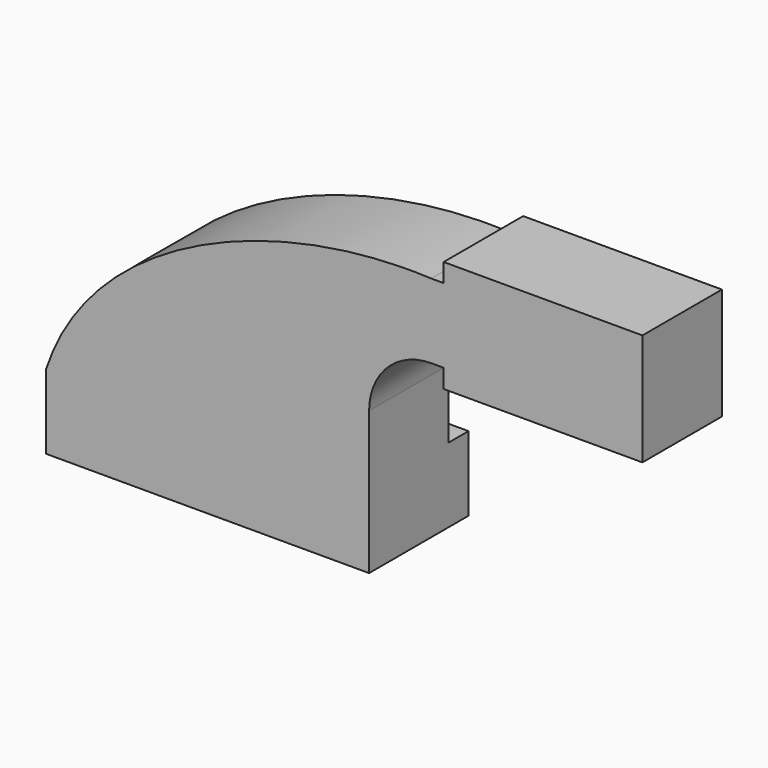
from build123d import *

# Parameters (mm, degrees)
F1_DEPTH = 6.35
F2_DEPTH = 25.4


with BuildPart() as f1:
    # F0 (on Front) → F1 (new body, symmetric)
    with BuildSketch(Plane.XZ):
        Polygon((41.275, -9.525), (41.275, 9.525), (22.225, 9.525), (-41.275, 9.525), (-41.275, -9.525), align=None)
    extrude(amount=F1_DEPTH, both=True)

    # F0 (on Front) → F2 (join)
    with BuildSketch(Plane.XZ):
        Polygon((41.275, -9.525), (41.275, 9.525), (22.225, 9.525), (-41.275, 9.525), (-41.275, -9.525), align=None)
        with BuildLine():
            Line((22.225, 9.525), (41.275, 9.525))
            Line((41.275, 9.525), (41.275, 27.0002))
            ThreePointArc((41.275, 27.0002), (45.92468, 38.22552), (57.15, 42.8752))
            Line((57.15, 42.8752), (60.325, 42.8752))
            Line((60.325, 42.8752), (60.325, 61.9252))
            Line((60.325, 61.9252), (57.15, 61.9252))
            ThreePointArc((57.15, 61.9252), (32.454296, 51.695904), (22.225, 27.0002))
            Line((22.225, 27.0002), (22.225, 9.525))
        make_face()
        with BuildLine():
            Line((-41.275, 9.525), (22.225, 9.525))
            Line((22.225, 9.525), (22.225, 27.0002))
            ThreePointArc((22.225, 27.0002), (32.454296, 51.695904), (57.15, 61.9252))
            add(Edge.make_bspline(
                [(-41.275, 9.525), (-29.570732, 45.406431), (17.613171, 63.827544), (57.15, 61.9252)],
                knots=[0, 0, 0, 0, 111.504536, 111.504536, 111.504536, 111.504536], degree=3))
        make_face()
        Polygon((60.325, 61.9252), (60.325, 42.8752), (60.325, 38.1), (111.125, 38.1), (111.125, 66.675), (60.325, 66.675), align=None)
    extrude(amount=F2_DEPTH)


solid = f1.part
